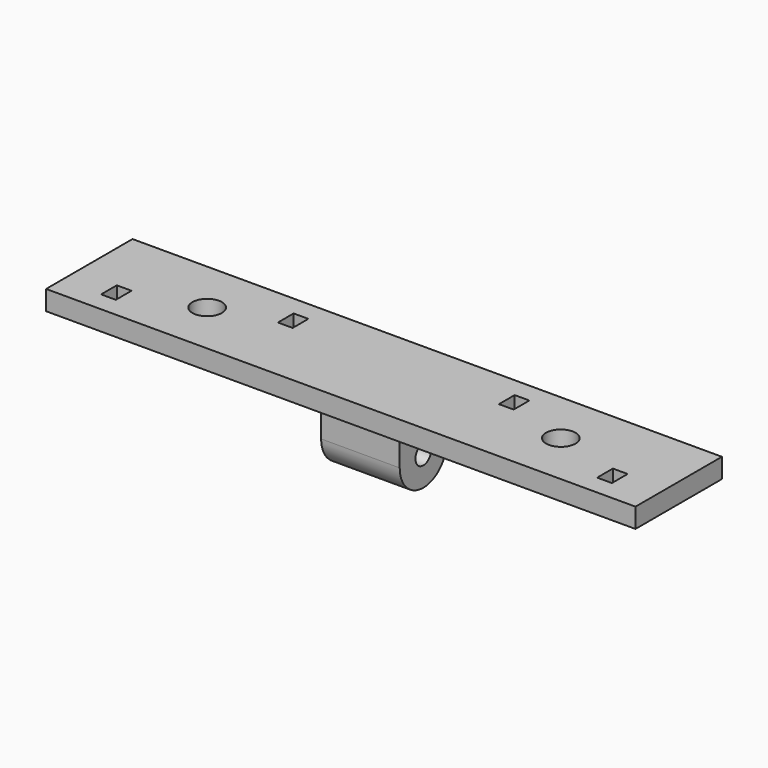
from build123d import *

# Parameters (mm, degrees)
F0_W     = 381
F0_H     = 69.85
F0_W_2   = 9.525
F0_H_2   = 12.7
F0_R     = 9.525
F1_DEPTH = 12.7
F2_W     = 50.8
F2_H     = 38.1
F3_DEPTH = 25.4
F4_W     = 50.8
F4_H     = 19.05
F6_R     = 6.35
F7_DEPTH = 76.2


with BuildPart() as f1:
    # F0 (on Top) → F1 (new body)
    with BuildSketch(Plane.XY):
        Rectangle(F0_W, F0_H)
        with Locations((-160.3375, -15.875)):
            Rectangle(F0_W_2, F0_H_2, mode=Mode.SUBTRACT)
        with Locations((160.3375, -15.875)):
            Rectangle(F0_W_2, F0_H_2, mode=Mode.SUBTRACT)
        with Locations((-114.3, 0)):
            Circle(F0_R, mode=Mode.SUBTRACT)
        with Locations((-71.4375, 15.875)):
            Rectangle(F0_W_2, F0_H_2, mode=Mode.SUBTRACT)
        with Locations((71.4375, 15.875)):
            Rectangle(F0_W_2, F0_H_2, mode=Mode.SUBTRACT)
        with Locations((114.3, 0)):
            Circle(F0_R, mode=Mode.SUBTRACT)
    extrude(amount=F1_DEPTH)

    # F2 (on face) → F3 (join)
    with BuildSketch(Plane(origin=(0, 0, 0), x_dir=(1, 0, 0), z_dir=(0, 0, -1))):
        Rectangle(F2_W, F2_H)
    extrude(amount=F3_DEPTH)

    # F4 (on face) → F5 (revolve)
    with BuildSketch(Plane(origin=(0, 0, -25.4), x_dir=(1, 0, 0), z_dir=(0, 0, -1))):
        with Locations((0, -9.525)):
            Rectangle(F4_W, F4_H)
    revolve(axis=Axis((0, 0, -25.4), (1, 0, 0)))

    # F6 (on face) → F7 (cut)
    with BuildSketch(Plane(origin=(-25.4, 0, 0), x_dir=(0, -1, 0), z_dir=(-1, 0, 0))):
        with Locations((0, -25.4)):
            Circle(F6_R)
    extrude(amount=-F7_DEPTH, mode=Mode.SUBTRACT)


solid = f1.part
